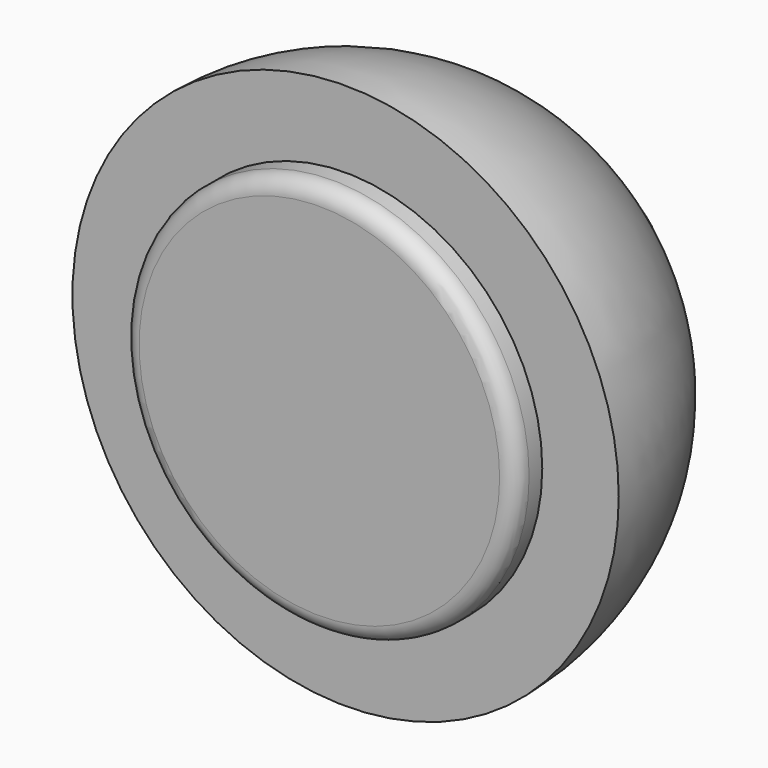
from build123d import *

# Parameters (mm, degrees)
F2_R     = 18
F3_DEPTH = 3
F4_R     = 1.5


with BuildPart() as f1:
    # F0 (on Top) → F1 (revolve)
    with BuildSketch(Plane.XY):
        with BuildLine():
            Line((0, 0), (25, 0))
            ThreePointArc((25, 0), (19.978445, 15.028697), (6.931061, 24.02))
            ThreePointArc((6.931061, 24.02), (5.284884, 29.590207), (0, 32))
            Line((0, 32), (0, 18))
            Line((0, 18), (0, 0))
        make_face()
    revolve(axis=Axis((0, 25, 0), (0, 1, 0)))

    # F2 (on Front) → F3 (join)
    with BuildSketch(Plane.XZ):
        Circle(F2_R)
    extrude(amount=F3_DEPTH)

    # F4
    f4_edges = [f1.edges().sort_by_distance(p)[0] for p in [
        (-18, -3, 0),
    ]]
    fillet(f4_edges, radius=F4_R)


solid = f1.part
